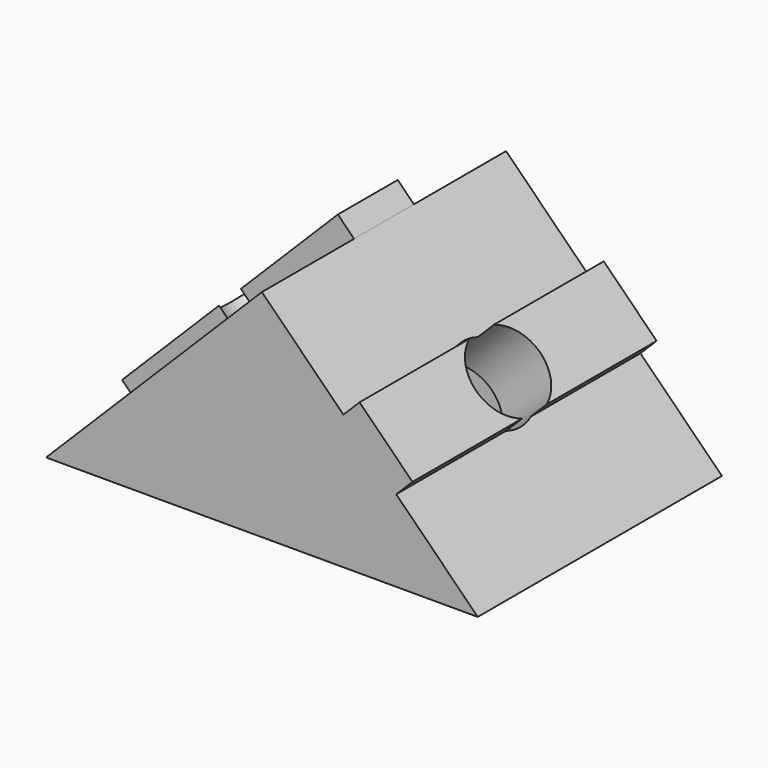
from build123d import *

# Parameters (mm, degrees)
PAD_DEPTH       = 10
PAD001_DEPTH    = 2.45
POCKET_DEPTH    = 7
SKETCH003_R     = 2.65
POCKET001_DEPTH = 13.751
SKETCH004_R     = 2.65
POCKET002_DEPTH = 5


with BuildPart() as part:
    # Sketch → Pad (new body, symmetric)
    with BuildSketch(Plane.XZ):
        Polygon((0, 14.142136), (-14.142136, 0), (14.142136, 0), (8.803479, 5.338656), (9.86414, 6.399316), (6.399316, 9.86414), (5.338656, 8.803479), align=None)
    extrude(amount=PAD_DEPTH, both=True)

    # Sketch001 → Pad001 (join, symmetric)
    with BuildSketch(Plane.XZ):
        Polygon((0, 14.142136), (-14.142136, 0), (-15.202796, 1.06066), (-1.06066, 15.202796), align=None)
    extrude(amount=PAD001_DEPTH, both=True)

    # Sketch002 → Pocket (cut, symmetric)
    with BuildSketch(Plane.XZ):
        Polygon((-9.899495, 0), (0, 9.899495), (9.899495, 0), align=None)
    extrude(amount=POCKET_DEPTH, both=True, mode=Mode.SUBTRACT)

    # Sketch003 (on Face13 of Pocket) → Pocket001 (cut, through all)
    with BuildSketch(Plane(origin=(4.949747, 0, 4.949747), x_dir=(0.707107, 0, -0.707107), z_dir=(-0.707107, 0, -0.707107))):
        Circle(SKETCH003_R)
    extrude(amount=-POCKET001_DEPTH, mode=Mode.SUBTRACT)

    # Sketch004 (on Face22 of Pocket001) → Pocket002 (cut)
    with BuildSketch(Plane(origin=(-4.949747, 0, 4.949747), x_dir=(0.707107, 0, 0.707107), z_dir=(0.707107, 0, -0.707107))):
        Circle(SKETCH004_R)
    extrude(amount=-POCKET002_DEPTH, mode=Mode.SUBTRACT)


solid = part.part
